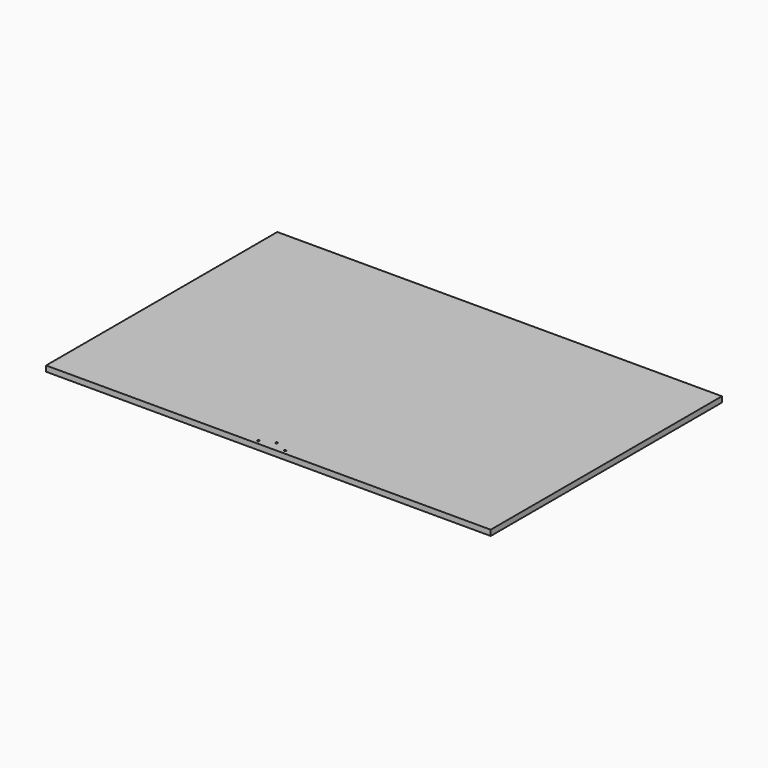
from build123d import *

# Parameters (mm, degrees)
F0_W     = 1016
F0_H     = 660.4
F1_DEPTH = 12.7
F3_DEPTH = 25.4


with BuildPart() as f1:
    # F0 (on Top) → F1 (new body)
    with BuildSketch(Plane.XY):
        Rectangle(F0_W, F0_H)
    extrude(amount=F1_DEPTH)

    # F2 (on face) → F3 (cut)
    with BuildSketch(Plane.XY.offset(12.7)):
        with BuildLine():
            ThreePointArc((2.38125, -306.784375), (0, -304.403125), (-2.38125, -306.784375))
            ThreePointArc((-2.38125, -306.784375), (0, -309.165625), (2.38125, -306.784375))
        make_face()
        with BuildLine():
            ThreePointArc((28.178125, -320.675), (28.8755769773, -322.3587980227), (30.559375, -323.05625))
            Line((30.559375, -323.05625), (30.559375, -320.675))
            Line((30.559375, -320.675), (28.178125, -320.675))
        make_face()
        with BuildLine():
            Line((30.559375, -320.675), (30.559375, -323.05625))
            ThreePointArc((30.559375, -323.05625), (32.2431730227, -322.3587980227), (32.940625, -320.675))
            ThreePointArc((32.940625, -320.675), (30.559375, -318.29375), (28.178125, -320.675))
            Line((28.178125, -320.675), (30.559375, -320.675))
        make_face()
        with BuildLine():
            Line((-30.559375, -320.675), (-30.559375, -323.05625))
            ThreePointArc((-30.559375, -323.05625), (-28.8755769773, -322.3587980227), (-28.178125, -320.675))
            Line((-28.178125, -320.675), (-30.559375, -320.675))
        make_face()
        with BuildLine():
            Line((-30.559375, -318.29375), (-30.559375, -320.675))
            Line((-30.559375, -320.675), (-28.178125, -320.675))
            ThreePointArc((-28.178125, -320.675), (-28.8755769773, -318.9912019773), (-30.559375, -318.29375))
        make_face()
        with BuildLine():
            ThreePointArc((-30.559375, -318.29375), (-32.940625, -320.675), (-30.559375, -323.05625))
            Line((-30.559375, -323.05625), (-30.559375, -320.675))
            Line((-30.559375, -320.675), (-30.559375, -318.29375))
        make_face()
    extrude(amount=-F3_DEPTH, mode=Mode.SUBTRACT)


solid = f1.part
